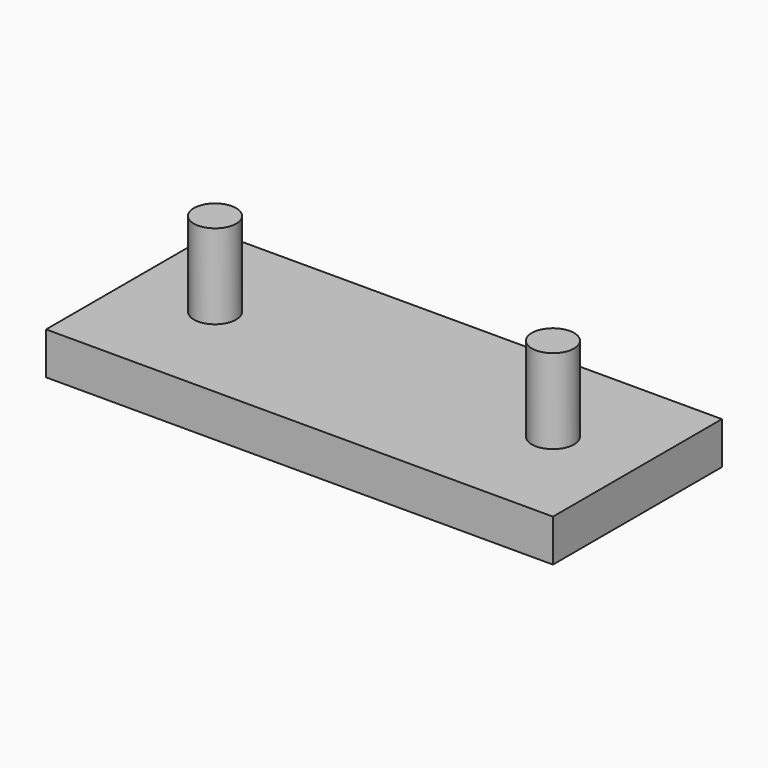
from build123d import *

# Parameters (mm, degrees)
F0_W     = 152.4
F0_H     = 63.5
F0_R     = 6.35
F1_DEPTH = 12.7
F2_DEPTH = 38.1


with BuildPart() as f1:
    # F0 (on Top) → F1 (new body)
    with BuildSketch(Plane.XY):
        with Locations((-76.2, 0)):
            Rectangle(F0_W, F0_H)
        with Locations((-127, 0)):
            Circle(F0_R, mode=Mode.SUBTRACT)
        with Locations((-25.4, 0)):
            Circle(F0_R, mode=Mode.SUBTRACT)
    extrude(amount=F1_DEPTH)

    # F0 (on Top) → F2 (join)
    with BuildSketch(Plane.XY):
        with Locations((-127, 0)):
            Circle(F0_R)
        with Locations((-25.4, 0)):
            Circle(F0_R)
    extrude(amount=F2_DEPTH)


solid = f1.part
